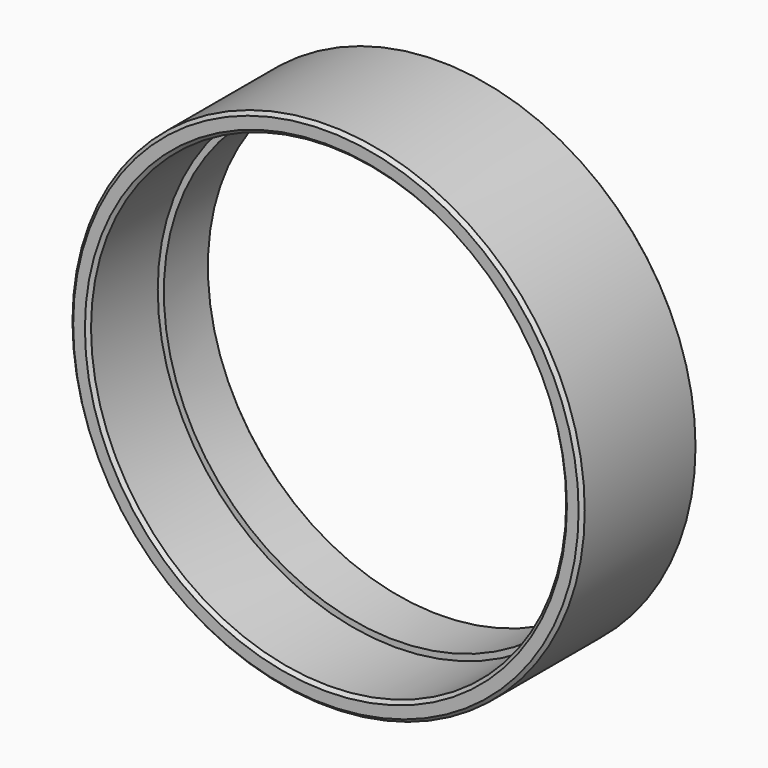
from build123d import *

# Parameters (mm, degrees)
F0_R     = 57.329977
F0_R_2   = 53.180957
F1_DEPTH = 32.512
F2_R     = 53.391542
F2_R_2   = 51.816
F3_DEPTH = 13.081
F4_SIZE  = 0.762


with BuildPart() as f1:
    # F0 (on Front) → F1 (new body)
    with BuildSketch(Plane.XZ):
        Circle(F0_R)
        Circle(F0_R_2, mode=Mode.SUBTRACT)
    extrude(amount=F1_DEPTH)

    # F2 (on Front) → F3 (join)
    with BuildSketch(Plane.XZ):
        Circle(F2_R)
        Circle(F2_R_2, mode=Mode.SUBTRACT)
    extrude(amount=F3_DEPTH)

    # F4
    f4_edges = [f1.edges().sort_by_distance(p)[0] for p in [
        (-53.180957, -32.512, 0),
        (-51.816, 0, 0),
        (-57.329977, -32.512, 0),
        (-57.329977, 0, 0),
    ]]
    chamfer(f4_edges, length=F4_SIZE)


solid = f1.part
